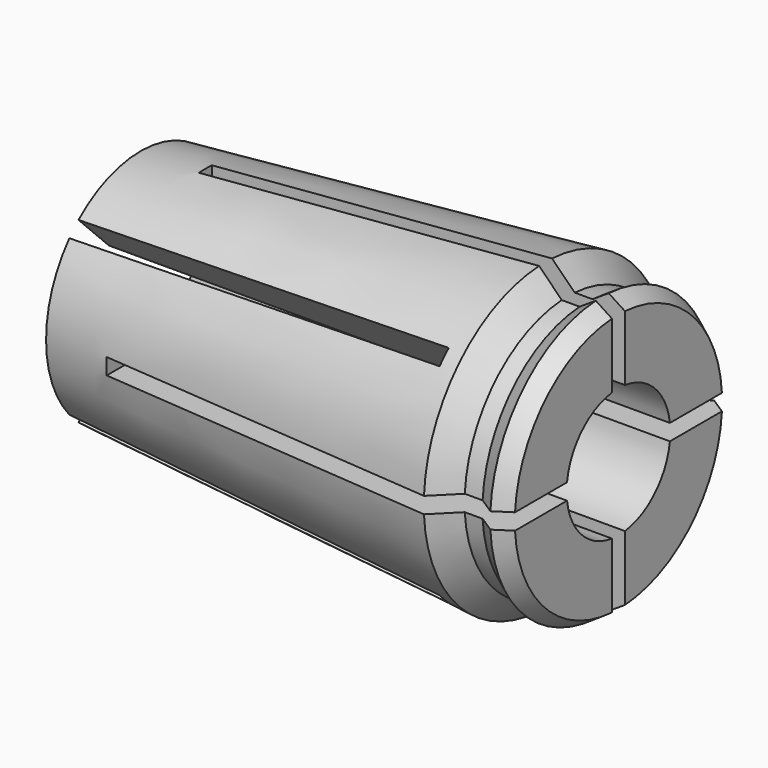
from build123d import *

# Parameters (mm, degrees)
F3_DEPTH = 29.501
F4_DEPTH = 25.5
F6_DEPTH = 24


with BuildPart() as f1:
    # F0 (on Front) → F1 (revolve)
    with BuildSketch(Plane.XZ):
        Polygon((0, 7.3), (0, 0), (29.5, 0), (29.5, 8), (28.5, 8.65), (27.5, 8), (26.4, 8), (25, 9.4), align=None)
    revolve(axis=Axis((14.75, 0, 0), (1, 0, 0)))

    # F2 (on face) → F3 (cut, through all)
    with BuildSketch(Plane.YZ.offset(29.5)):
        with BuildLine():
            Line((-0.5, 0.5), (-0.5, 3.9686269666))
            ThreePointArc((-0.5, 3.9686269666), (-2.8284271247, 2.8284271247), (-3.9686269666, 0.5))
            Line((-3.9686269666, 0.5), (-0.5, 0.5))
        make_face()
        with BuildLine():
            ThreePointArc((3.9686269666, -0.5), (3.9921490369, -0.2504916502), (4, 0))
            ThreePointArc((4, 0), (3.9921490369, 0.2504916502), (3.9686269666, 0.5))
            Line((3.9686269666, 0.5), (0.5, 0.5))
            Line((0.5, 0.5), (0.5, 3.9686269666))
            ThreePointArc((0.5, 3.9686269666), (0, 4), (-0.5, 3.9686269666))
            Line((-0.5, 3.9686269666), (-0.5, 0.5))
            Line((-0.5, 0.5), (-3.9686269666, 0.5))
            ThreePointArc((-3.9686269666, 0.5), (-4, 0), (-3.9686269666, -0.5))
            Line((-3.9686269666, -0.5), (-0.5, -0.5))
            Line((-0.5, -0.5), (-0.5, -3.9686269666))
            ThreePointArc((-0.5, -3.9686269666), (0, -4), (0.5, -3.9686269666))
            Line((0.5, -3.9686269666), (0.5, -0.5))
            Line((0.5, -0.5), (3.9686269666, -0.5))
        make_face()
        with BuildLine():
            Line((0.5, 0.5), (3.9686269666, 0.5))
            ThreePointArc((3.9686269666, 0.5), (2.8284271247, 2.8284271247), (0.5, 3.9686269666))
            Line((0.5, 3.9686269666), (0.5, 0.5))
        make_face()
        with BuildLine():
            ThreePointArc((3.9686269666, -0.5), (3.9921490369, -0.2504916502), (4, 0))
            ThreePointArc((4, 0), (3.9921490369, 0.2504916502), (3.9686269666, 0.5))
            Line((3.9686269666, 0.5), (0.5, 0.5))
            Line((0.5, 0.5), (0.5, 3.9686269666))
            ThreePointArc((0.5, 3.9686269666), (0, 4), (-0.5, 3.9686269666))
            Line((-0.5, 3.9686269666), (-0.5, 0.5))
            Line((-0.5, 0.5), (-3.9686269666, 0.5))
            ThreePointArc((-3.9686269666, 0.5), (-4, 0), (-3.9686269666, -0.5))
            Line((-3.9686269666, -0.5), (-0.5, -0.5))
            Line((-0.5, -0.5), (-0.5, -3.9686269666))
            ThreePointArc((-0.5, -3.9686269666), (0, -4), (0.5, -3.9686269666))
            Line((0.5, -3.9686269666), (0.5, -0.5))
            Line((0.5, -0.5), (3.9686269666, -0.5))
        make_face()
        with BuildLine():
            ThreePointArc((0.5, -3.9686269666), (2.8284271247, -2.8284271247), (3.9686269666, -0.5))
            Line((3.9686269666, -0.5), (0.5, -0.5))
            Line((0.5, -0.5), (0.5, -3.9686269666))
        make_face()
        with BuildLine():
            ThreePointArc((3.9686269666, -0.5), (3.9921490369, -0.2504916502), (4, 0))
            ThreePointArc((4, 0), (3.9921490369, 0.2504916502), (3.9686269666, 0.5))
            Line((3.9686269666, 0.5), (0.5, 0.5))
            Line((0.5, 0.5), (0.5, 3.9686269666))
            ThreePointArc((0.5, 3.9686269666), (0, 4), (-0.5, 3.9686269666))
            Line((-0.5, 3.9686269666), (-0.5, 0.5))
            Line((-0.5, 0.5), (-3.9686269666, 0.5))
            ThreePointArc((-3.9686269666, 0.5), (-4, 0), (-3.9686269666, -0.5))
            Line((-3.9686269666, -0.5), (-0.5, -0.5))
            Line((-0.5, -0.5), (-0.5, -3.9686269666))
            ThreePointArc((-0.5, -3.9686269666), (0, -4), (0.5, -3.9686269666))
            Line((0.5, -3.9686269666), (0.5, -0.5))
            Line((0.5, -0.5), (3.9686269666, -0.5))
        make_face()
        with BuildLine():
            ThreePointArc((-3.9686269666, -0.5), (-2.8284271247, -2.8284271247), (-0.5, -3.9686269666))
            Line((-0.5, -3.9686269666), (-0.5, -0.5))
            Line((-0.5, -0.5), (-3.9686269666, -0.5))
        make_face()
        with BuildLine():
            ThreePointArc((3.9686269666, -0.5), (3.9921490369, -0.2504916502), (4, 0))
            ThreePointArc((4, 0), (3.9921490369, 0.2504916502), (3.9686269666, 0.5))
            Line((3.9686269666, 0.5), (0.5, 0.5))
            Line((0.5, 0.5), (0.5, 3.9686269666))
            ThreePointArc((0.5, 3.9686269666), (0, 4), (-0.5, 3.9686269666))
            Line((-0.5, 3.9686269666), (-0.5, 0.5))
            Line((-0.5, 0.5), (-3.9686269666, 0.5))
            ThreePointArc((-3.9686269666, 0.5), (-4, 0), (-3.9686269666, -0.5))
            Line((-3.9686269666, -0.5), (-0.5, -0.5))
            Line((-0.5, -0.5), (-0.5, -3.9686269666))
            ThreePointArc((-0.5, -3.9686269666), (0, -4), (0.5, -3.9686269666))
            Line((0.5, -3.9686269666), (0.5, -0.5))
            Line((0.5, -0.5), (3.9686269666, -0.5))
        make_face()
        with BuildLine():
            ThreePointArc((3.9686269666, -0.5), (3.9921490369, -0.2504916502), (4, 0))
            ThreePointArc((4, 0), (3.9921490369, 0.2504916502), (3.9686269666, 0.5))
            Line((3.9686269666, 0.5), (0.5, 0.5))
            Line((0.5, 0.5), (0.5, 3.9686269666))
            ThreePointArc((0.5, 3.9686269666), (0, 4), (-0.5, 3.9686269666))
            Line((-0.5, 3.9686269666), (-0.5, 0.5))
            Line((-0.5, 0.5), (-3.9686269666, 0.5))
            ThreePointArc((-3.9686269666, 0.5), (-4, 0), (-3.9686269666, -0.5))
            Line((-3.9686269666, -0.5), (-0.5, -0.5))
            Line((-0.5, -0.5), (-0.5, -3.9686269666))
            ThreePointArc((-0.5, -3.9686269666), (0, -4), (0.5, -3.9686269666))
            Line((0.5, -3.9686269666), (0.5, -0.5))
            Line((0.5, -0.5), (3.9686269666, -0.5))
        make_face()
        with BuildLine():
            ThreePointArc((3.9686269666, -0.5), (3.9921490369, -0.2504916502), (4, 0))
            ThreePointArc((4, 0), (3.9921490369, 0.2504916502), (3.9686269666, 0.5))
            Line((3.9686269666, 0.5), (0.5, 0.5))
            Line((0.5, 0.5), (0.5, 3.9686269666))
            ThreePointArc((0.5, 3.9686269666), (0, 4), (-0.5, 3.9686269666))
            Line((-0.5, 3.9686269666), (-0.5, 0.5))
            Line((-0.5, 0.5), (-3.9686269666, 0.5))
            ThreePointArc((-3.9686269666, 0.5), (-4, 0), (-3.9686269666, -0.5))
            Line((-3.9686269666, -0.5), (-0.5, -0.5))
            Line((-0.5, -0.5), (-0.5, -3.9686269666))
            ThreePointArc((-0.5, -3.9686269666), (0, -4), (0.5, -3.9686269666))
            Line((0.5, -3.9686269666), (0.5, -0.5))
            Line((0.5, -0.5), (3.9686269666, -0.5))
        make_face()
        with BuildLine():
            ThreePointArc((3.9686269666, -0.5), (3.9921490369, -0.2504916502), (4, 0))
            ThreePointArc((4, 0), (3.9921490369, 0.2504916502), (3.9686269666, 0.5))
            Line((3.9686269666, 0.5), (0.5, 0.5))
            Line((0.5, 0.5), (0.5, 3.9686269666))
            ThreePointArc((0.5, 3.9686269666), (0, 4), (-0.5, 3.9686269666))
            Line((-0.5, 3.9686269666), (-0.5, 0.5))
            Line((-0.5, 0.5), (-3.9686269666, 0.5))
            ThreePointArc((-3.9686269666, 0.5), (-4, 0), (-3.9686269666, -0.5))
            Line((-3.9686269666, -0.5), (-0.5, -0.5))
            Line((-0.5, -0.5), (-0.5, -3.9686269666))
            ThreePointArc((-0.5, -3.9686269666), (0, -4), (0.5, -3.9686269666))
            Line((0.5, -3.9686269666), (0.5, -0.5))
            Line((0.5, -0.5), (3.9686269666, -0.5))
        make_face()
        with BuildLine():
            ThreePointArc((3.9686269666, -0.5), (3.9921490369, -0.2504916502), (4, 0))
            ThreePointArc((4, 0), (3.9921490369, 0.2504916502), (3.9686269666, 0.5))
            Line((3.9686269666, 0.5), (0.5, 0.5))
            Line((0.5, 0.5), (0.5, 3.9686269666))
            ThreePointArc((0.5, 3.9686269666), (0, 4), (-0.5, 3.9686269666))
            Line((-0.5, 3.9686269666), (-0.5, 0.5))
            Line((-0.5, 0.5), (-3.9686269666, 0.5))
            ThreePointArc((-3.9686269666, 0.5), (-4, 0), (-3.9686269666, -0.5))
            Line((-3.9686269666, -0.5), (-0.5, -0.5))
            Line((-0.5, -0.5), (-0.5, -3.9686269666))
            ThreePointArc((-0.5, -3.9686269666), (0, -4), (0.5, -3.9686269666))
            Line((0.5, -3.9686269666), (0.5, -0.5))
            Line((0.5, -0.5), (3.9686269666, -0.5))
        make_face()
    extrude(amount=-F3_DEPTH, mode=Mode.SUBTRACT)

    # F2 (on face) → F4 (cut)
    with BuildSketch(Plane.YZ.offset(29.5)):
        with BuildLine():
            ThreePointArc((-0.5, 7.9843597113), (0, 8), (0.5, 7.9843597113))
            Line((0.5, 7.9843597113), (0.5, 10.0491633639))
            Line((0.5, 10.0491633639), (-0.5, 10.0491633639))
            Line((-0.5, 10.0491633639), (-0.5, 7.9843597113))
        make_face()
        with BuildLine():
            ThreePointArc((-0.5, 3.9686269666), (0, 4), (0.5, 3.9686269666))
            Line((0.5, 3.9686269666), (0.5, 7.9843597113))
            ThreePointArc((0.5, 7.9843597113), (0, 8), (-0.5, 7.9843597113))
            Line((-0.5, 7.9843597113), (-0.5, 3.9686269666))
        make_face()
        with BuildLine():
            ThreePointArc((3.9686269666, -0.5), (3.9921490369, -0.2504916502), (4, 0))
            ThreePointArc((4, 0), (3.9921490369, 0.2504916502), (3.9686269666, 0.5))
            Line((3.9686269666, 0.5), (0.5, 0.5))
            Line((0.5, 0.5), (0.5, 3.9686269666))
            ThreePointArc((0.5, 3.9686269666), (0, 4), (-0.5, 3.9686269666))
            Line((-0.5, 3.9686269666), (-0.5, 0.5))
            Line((-0.5, 0.5), (-3.9686269666, 0.5))
            ThreePointArc((-3.9686269666, 0.5), (-4, 0), (-3.9686269666, -0.5))
            Line((-3.9686269666, -0.5), (-0.5, -0.5))
            Line((-0.5, -0.5), (-0.5, -3.9686269666))
            ThreePointArc((-0.5, -3.9686269666), (0, -4), (0.5, -3.9686269666))
            Line((0.5, -3.9686269666), (0.5, -0.5))
            Line((0.5, -0.5), (3.9686269666, -0.5))
        make_face()
        with BuildLine():
            ThreePointArc((3.9686269666, -0.5), (3.9921490369, -0.2504916502), (4, 0))
            ThreePointArc((4, 0), (3.9921490369, 0.2504916502), (3.9686269666, 0.5))
            Line((3.9686269666, 0.5), (0.5, 0.5))
            Line((0.5, 0.5), (0.5, 3.9686269666))
            ThreePointArc((0.5, 3.9686269666), (0, 4), (-0.5, 3.9686269666))
            Line((-0.5, 3.9686269666), (-0.5, 0.5))
            Line((-0.5, 0.5), (-3.9686269666, 0.5))
            ThreePointArc((-3.9686269666, 0.5), (-4, 0), (-3.9686269666, -0.5))
            Line((-3.9686269666, -0.5), (-0.5, -0.5))
            Line((-0.5, -0.5), (-0.5, -3.9686269666))
            ThreePointArc((-0.5, -3.9686269666), (0, -4), (0.5, -3.9686269666))
            Line((0.5, -3.9686269666), (0.5, -0.5))
            Line((0.5, -0.5), (3.9686269666, -0.5))
        make_face()
        with BuildLine():
            Line((0.5, -7.9843597113), (0.5, -3.9686269666))
            ThreePointArc((0.5, -3.9686269666), (0, -4), (-0.5, -3.9686269666))
            Line((-0.5, -3.9686269666), (-0.5, -7.9843597113))
            ThreePointArc((-0.5, -7.9843597113), (0, -8), (0.5, -7.9843597113))
        make_face()
        with BuildLine():
            Line((0.5, -10.0491633639), (0.5, -7.9843597113))
            ThreePointArc((0.5, -7.9843597113), (0, -8), (-0.5, -7.9843597113))
            Line((-0.5, -7.9843597113), (-0.5, -10.0491633639))
            Line((-0.5, -10.0491633639), (0.5, -10.0491633639))
        make_face()
        with BuildLine():
            ThreePointArc((-3.9686269666, -0.5), (-4, 0), (-3.9686269666, 0.5))
            Line((-3.9686269666, 0.5), (-7.9843597113, 0.5))
            ThreePointArc((-7.9843597113, 0.5), (-8, 0), (-7.9843597113, -0.5))
            Line((-7.9843597113, -0.5), (-3.9686269666, -0.5))
        make_face()
        with BuildLine():
            ThreePointArc((-7.9843597113, -0.5), (-8, 0), (-7.9843597113, 0.5))
            Line((-7.9843597113, 0.5), (-10.0491633639, 0.5))
            Line((-10.0491633639, 0.5), (-10.0491633639, -0.5))
            Line((-10.0491633639, -0.5), (-7.9843597113, -0.5))
        make_face()
        with BuildLine():
            ThreePointArc((3.9686269666, -0.5), (3.9921490369, -0.2504916502), (4, 0))
            ThreePointArc((4, 0), (3.9921490369, 0.2504916502), (3.9686269666, 0.5))
            Line((3.9686269666, 0.5), (0.5, 0.5))
            Line((0.5, 0.5), (0.5, 3.9686269666))
            ThreePointArc((0.5, 3.9686269666), (0, 4), (-0.5, 3.9686269666))
            Line((-0.5, 3.9686269666), (-0.5, 0.5))
            Line((-0.5, 0.5), (-3.9686269666, 0.5))
            ThreePointArc((-3.9686269666, 0.5), (-4, 0), (-3.9686269666, -0.5))
            Line((-3.9686269666, -0.5), (-0.5, -0.5))
            Line((-0.5, -0.5), (-0.5, -3.9686269666))
            ThreePointArc((-0.5, -3.9686269666), (0, -4), (0.5, -3.9686269666))
            Line((0.5, -3.9686269666), (0.5, -0.5))
            Line((0.5, -0.5), (3.9686269666, -0.5))
        make_face()
        with BuildLine():
            ThreePointArc((3.9686269666, -0.5), (3.9921490369, -0.2504916502), (4, 0))
            ThreePointArc((4, 0), (3.9921490369, 0.2504916502), (3.9686269666, 0.5))
            Line((3.9686269666, 0.5), (0.5, 0.5))
            Line((0.5, 0.5), (0.5, 3.9686269666))
            ThreePointArc((0.5, 3.9686269666), (0, 4), (-0.5, 3.9686269666))
            Line((-0.5, 3.9686269666), (-0.5, 0.5))
            Line((-0.5, 0.5), (-3.9686269666, 0.5))
            ThreePointArc((-3.9686269666, 0.5), (-4, 0), (-3.9686269666, -0.5))
            Line((-3.9686269666, -0.5), (-0.5, -0.5))
            Line((-0.5, -0.5), (-0.5, -3.9686269666))
            ThreePointArc((-0.5, -3.9686269666), (0, -4), (0.5, -3.9686269666))
            Line((0.5, -3.9686269666), (0.5, -0.5))
            Line((0.5, -0.5), (3.9686269666, -0.5))
        make_face()
        with BuildLine():
            ThreePointArc((3.9686269666, 0.5), (3.9921490369, 0.2504916502), (4, 0))
            ThreePointArc((4, 0), (3.9921490369, -0.2504916502), (3.9686269666, -0.5))
            Line((3.9686269666, -0.5), (7.9843597113, -0.5))
            ThreePointArc((7.9843597113, -0.5), (7.9960889718, -0.2501222794), (8, 0))
            ThreePointArc((8, 0), (7.9960889718, 0.2501222794), (7.9843597113, 0.5))
            Line((7.9843597113, 0.5), (3.9686269666, 0.5))
        make_face()
        with BuildLine():
            Line((10.0491633639, 0.5), (7.9843597113, 0.5))
            ThreePointArc((7.9843597113, 0.5), (7.9960889718, 0.2501222794), (8, 0))
            ThreePointArc((8, 0), (7.9960889718, -0.2501222794), (7.9843597113, -0.5))
            Line((7.9843597113, -0.5), (10.0491633639, -0.5))
            Line((10.0491633639, -0.5), (10.0491633639, 0.5))
        make_face()
    extrude(amount=-F4_DEPTH, mode=Mode.SUBTRACT)

    # F5 (on face) → F6 (cut)
    with BuildSketch(Plane(origin=(0, 0, 0), x_dir=(0, -1, 0), z_dir=(-1, 0, 0))):
        Polygon((6.7522781693, 7.4593849504), (0, 0.7071067812), (-6.7522781693, 7.4593849504), (-7.4593849504, 6.7522781693), (-0.7071067812, 0), (-7.4593849504, -6.7522781693), (-6.7522781693, -7.4593849504), (0, -0.7071067812), (6.7522781693, -7.4593849504), (7.4593849504, -6.7522781693), (0.7071067812, 0), (7.4593849504, 6.7522781693), align=None)
    extrude(amount=-F6_DEPTH, mode=Mode.SUBTRACT)


solid = f1.part
